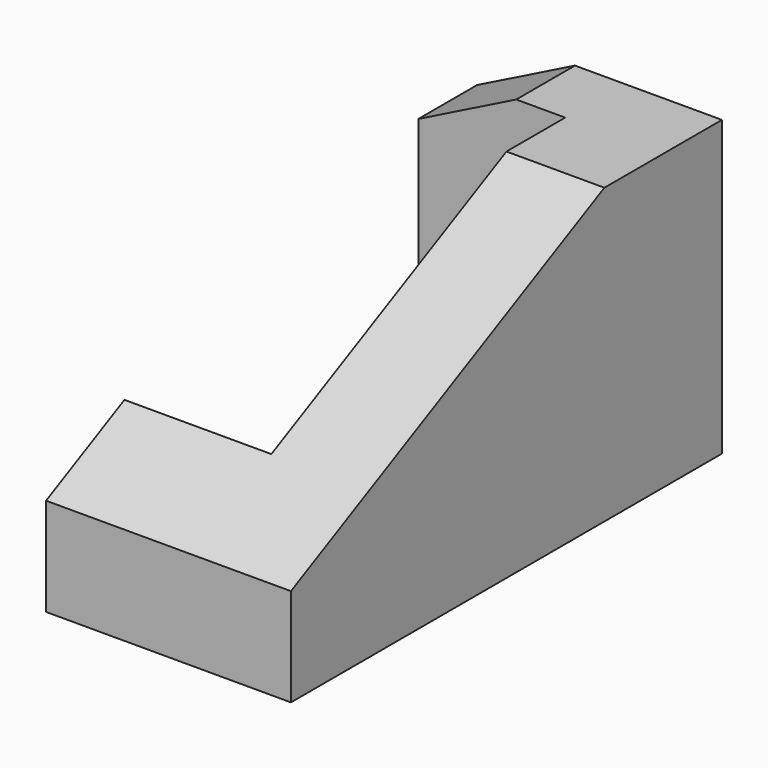
from build123d import *

# Parameters (mm, degrees)
F1_W     = 50
F1_H     = 110
F2_DEPTH = 60
F3_W     = 30
F3_H     = 75
F4_DEPTH = 60
F6_DEPTH = 15
F8_DEPTH = 50


with BuildPart() as f2:
    # F1 (on Top) → F2 (new body)
    with BuildSketch(Plane.XY):
        Rectangle(F1_W, F1_H)
    extrude(amount=F2_DEPTH)

    # F3 (on face) → F4 (cut)
    with BuildSketch(Plane.XY.offset(60)):
        with Locations((-10, 2.5)):
            Rectangle(F3_W, F3_H)
    extrude(amount=-F4_DEPTH, mode=Mode.SUBTRACT)

    # F5 (on face) → F6 (cut)
    with BuildSketch(Plane(origin=(0, 55, 0), x_dir=(-1, 0, 0), z_dir=(0, 1, 0))):
        Polygon((5, 60), (25, 50), (25, 60), align=None)
    extrude(amount=-F6_DEPTH, mode=Mode.SUBTRACT)

    # F7 (on face) → F8 (cut)
    with BuildSketch(Plane.YZ.offset(25)):
        Polygon((-55, 20), (25, 60), (-55, 60), align=None)
    extrude(amount=-F8_DEPTH, mode=Mode.SUBTRACT)


solid = f2.part
